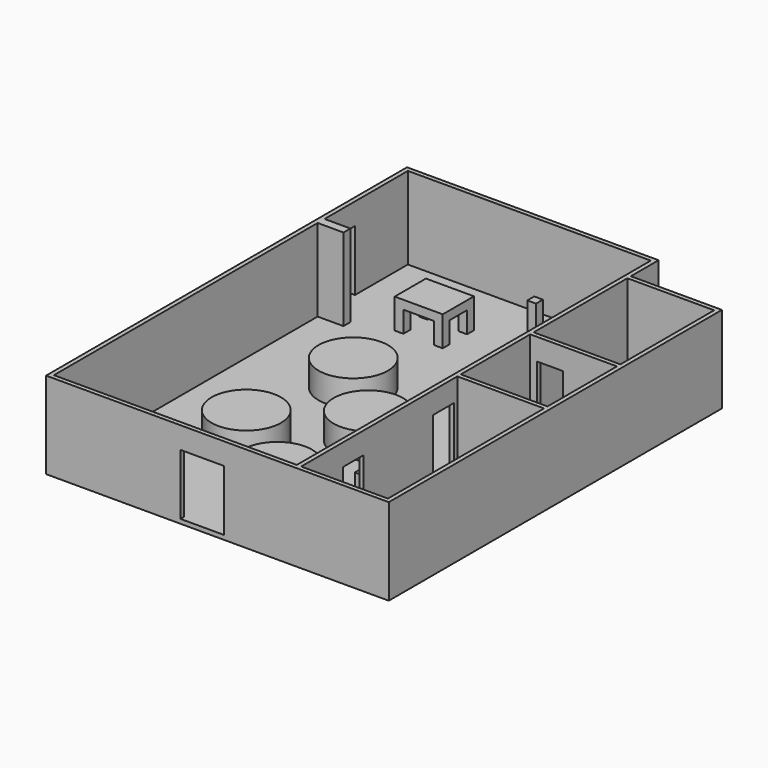
from build123d import *

# Parameters (mm, degrees)
F0_W      = 75.6297543388
F0_H      = 25.4
F0_W_2    = 254
F0_H_2    = 12.7
F1_DEPTH  = 254
F3_DEPTH  = 12.7
F4_R      = 101.6
F5_DEPTH  = 76.2
F6_W      = 76.2
F6_H      = 177.8
F7_DEPTH  = 25.4
F8_W      = 127
F8_H      = 177.8
F9_DEPTH  = 25.4
F10_W     = 76.2
F10_H     = 177.8
F11_DEPTH = 25.4
F12_W     = 76.2
F12_H     = 177.8
F13_DEPTH = 25.4
F14_W     = 76.2
F14_H     = 191.3614441931
F15_DEPTH = 25.4
F17_DEPTH = 241.3
F18_W     = 25.4
F18_H     = 25.4
F19_DEPTH = 62.23
F20_DEPTH = 25.4
F21_W     = 25.4
F21_H     = 25.4
F22_DEPTH = 25.4
F23_W     = 77.4427120167
F23_H     = 102.6062965393
F24_DEPTH = 71.12
F25_W     = 39.3790647912
F25_H     = 60.6827586889
F26_DEPTH = 53.34
F27_W     = 32.5816385448
F27_H     = 54.1992932558
F28_DEPTH = 20.32
F29_R     = 2.3092601705
F30_DEPTH = 11.684


with BuildPart() as f1:
    # F0 (on Top) → F1 (new body)
    with BuildSketch(Plane.XY):
        Polygon((-705.2555303436, -766.5243874192), (-578.2555303436, -766.5243874192), (31.3444696564, -766.5243874192), (31.3444696564, -753.8243874192), (31.3444696564, -639.5243874192), (31.3444696564, -182.3243874192), (31.3444696564, -169.6243874192), (31.3444696564, 84.3756125808), (31.3444696564, 97.0756125808), (31.3444696564, 439.9756125808), (31.3444696564, 452.6756125808), (31.3444696564, 554.2756125808), (-578.2555303436, 554.2756125808), (-705.2555303436, 554.2756125808), (-705.2555303436, -639.5243874192), align=None)
        Polygon((-692.5555303436, 236.7756125808), (-692.5555303436, 541.5756125808), (18.6444696564, 541.5756125808), (18.6444696564, -753.8243874192), (-692.5555303436, -753.8243874192), (-692.5555303436, 211.3756125808), align=None, mode=Mode.SUBTRACT)
        Polygon((31.3444696564, -753.8243874192), (31.3444696564, -766.5243874192), (298.0444696564, -766.5243874192), (298.0444696564, 452.6756125808), (31.3444696564, 452.6756125808), (31.3444696564, 439.9756125808), (285.3444696564, 439.9756125808), (285.3444696564, 97.0756125808), (285.3444696564, 84.3756125808), (285.3444696564, -169.6243874192), (285.3444696564, -182.3243874192), (285.3444696564, -753.8243874192), align=None)
        with Locations((-654.7406531742, 224.0756125808)):
            Rectangle(F0_W, F0_H)
        with Locations((158.3444696564, -175.9743874192)):
            Rectangle(F0_W_2, F0_H_2)
        with Locations((158.3444696564, 90.7256125808)):
            Rectangle(F0_W_2, F0_H_2)
    extrude(amount=-F1_DEPTH)

    # F2 (on face) → F3 (join)
    with BuildSketch(Plane(origin=(0, 0, -254), x_dir=(1, 0, 0), z_dir=(0, 0, -1))):
        Polygon((-705.2555303436, -554.2756125808), (-692.5555303436, -554.2756125808), (31.3444696564, -554.2756125808), (31.3444696564, -452.6756125808), (298.0444696564, -452.6756125808), (298.0444696564, 766.5243874192), (-705.2555303436, 766.5243874192), align=None)
    extrude(amount=-F3_DEPTH)

    # F4 (on face) → F5 (join)
    with BuildSketch(Plane.XY.offset(-241.3)):
        with Locations((-409.7238771986, -11.7228467155)):
            Circle(F4_R)
        with Locations((-219.1344722543, -194.9250362249)):
            Circle(F4_R)
        with Locations((-439.272572652, -366.3077359129)):
            Circle(F4_R)
        with Locations((-222.0893417996, -524.3934827381)):
            Circle(F4_R)
    extrude(amount=F5_DEPTH)

    # F6 (on face) → F7 (cut)
    with BuildSketch(Plane.YZ.offset(-692.5555303436)):
        with Locations((309.93842659, -152.4)):
            Rectangle(F6_W, F6_H)
    extrude(amount=-F7_DEPTH, mode=Mode.SUBTRACT)

    # F8 (on face) → F9 (cut)
    with BuildSketch(Plane(origin=(0, -753.8243874192, 0), x_dir=(-1, 0, 0), z_dir=(0, 1, 0))):
        with Locations((248.0555303436, -152.4)):
            Rectangle(F8_W, F8_H)
    extrude(amount=-F9_DEPTH, mode=Mode.SUBTRACT)

    # F10 (on face) → F11 (cut)
    with BuildSketch(Plane(origin=(18.6444696564, 0, 0), x_dir=(0, -1, 0), z_dir=(-1, 0, 0))):
        with Locations((233.1243874192, -152.4)):
            Rectangle(F10_W, F10_H)
        with Locations((563.3243874192, -152.4)):
            Rectangle(F10_W, F10_H)
        with Locations((118.8243874192, -152.4)):
            Rectangle(F10_W, F10_H)
    extrude(amount=-F11_DEPTH, mode=Mode.SUBTRACT)

    # F12 (on face) → F13 (cut)
    with BuildSketch(Plane.XZ.offset(-84.3756125808)):
        with Locations((89.0679913521, -152.4)):
            Rectangle(F12_W, F12_H)
    extrude(amount=-F13_DEPTH, mode=Mode.SUBTRACT)

    # F14 (on face) → F15 (cut)
    with BuildSketch(Plane.YZ.offset(31.3444696564)):
        with Locations((490.7756125808, -145.6192779034)):
            Rectangle(F14_W, F14_H)
    extrude(amount=-F15_DEPTH, mode=Mode.SUBTRACT)

    # F16 (on face) → F17 (join)
    with BuildSketch(Plane.XY.offset(-241.3)):
        Polygon((-53.3087753415, 236.7756125808), (-78.7087753415, 236.7756125808), (-78.7087753415, 211.3756125808), (-61.1483082175, 211.3756125808), (-53.3087753415, 211.3756125808), align=None)
    extrude(amount=F17_DEPTH)

    # F18 (on face) → F19 (join)
    with BuildSketch(Plane.XY.offset(-241.3)):
        with Locations((-498.9669535637, 368.9300801277)):
            Rectangle(F18_W, F18_H)
        with Locations((-498.9669535637, 279.9933936119)):
            Rectangle(F18_W, F18_H)
        with Locations((-383.7003324509, 279.9933936119)):
            Rectangle(F18_W, F18_H)
        with Locations((-383.7003324509, 368.9300801277)):
            Rectangle(F18_W, F18_H)
    extrude(amount=F19_DEPTH)

    # F18 (on face) → F20 (join)
    with BuildSketch(Plane.XY.offset(-241.3)):
        with Locations((-498.9669535637, 368.9300801277)):
            Rectangle(F18_W, F18_H)
        with Locations((-498.9669535637, 279.9933936119)):
            Rectangle(F18_W, F18_H)
        with Locations((-383.7003324509, 279.9933936119)):
            Rectangle(F18_W, F18_H)
        with Locations((-383.7003324509, 368.9300801277)):
            Rectangle(F18_W, F18_H)
    extrude(amount=F20_DEPTH)

    # F21 (on face) → F22 (join)
    with BuildSketch(Plane.XY.offset(-179.07)):
        with Locations((-498.9669535637, 368.9300801277)):
            Rectangle(F21_W, F21_H)
        Polygon((-486.2669535637, 356.2300801277), (-511.6669535637, 356.2300801277), (-511.6669535637, 267.2933936119), (-396.4003324509, 267.2933936119), (-396.4003324509, 292.6933936119), (-371.0003324509, 292.6933936119), (-371.0003324509, 381.6300801277), (-486.2669535637, 381.6300801277), align=None)
        with Locations((-383.7003324509, 279.9933936119)):
            Rectangle(F21_W, F21_H)
    extrude(amount=F22_DEPTH)

    # F23 (on face) → F24 (join)
    with BuildSketch(Plane.XY.offset(-241.3)):
        with Locations((-20.076886352, -393.2565152645)):
            Rectangle(F23_W, F23_H)
    extrude(amount=F24_DEPTH)

    # F25 (on face) → F26 (join)
    with BuildSketch(Plane.XY.offset(-241.3)):
        with Locations((-1.0450627392, 133.5669532418)):
            Rectangle(F25_W, F25_H)
    extrude(amount=F26_DEPTH)

    # F27 (on face) → F28 (cut)
    with BuildSketch(Plane.XY.offset(-187.96)):
        with Locations((-1.1091437191, 133.5575208068)):
            Rectangle(F27_W, F27_H)
    extrude(amount=-F28_DEPTH, mode=Mode.SUBTRACT)

    # F29 (on face) → F30 (cut)
    with BuildSketch(Plane.XY.offset(-208.28)):
        with Locations((0, 133.9616626501)):
            Circle(F29_R)
    extrude(amount=-F30_DEPTH, mode=Mode.SUBTRACT)


solid = f1.part
